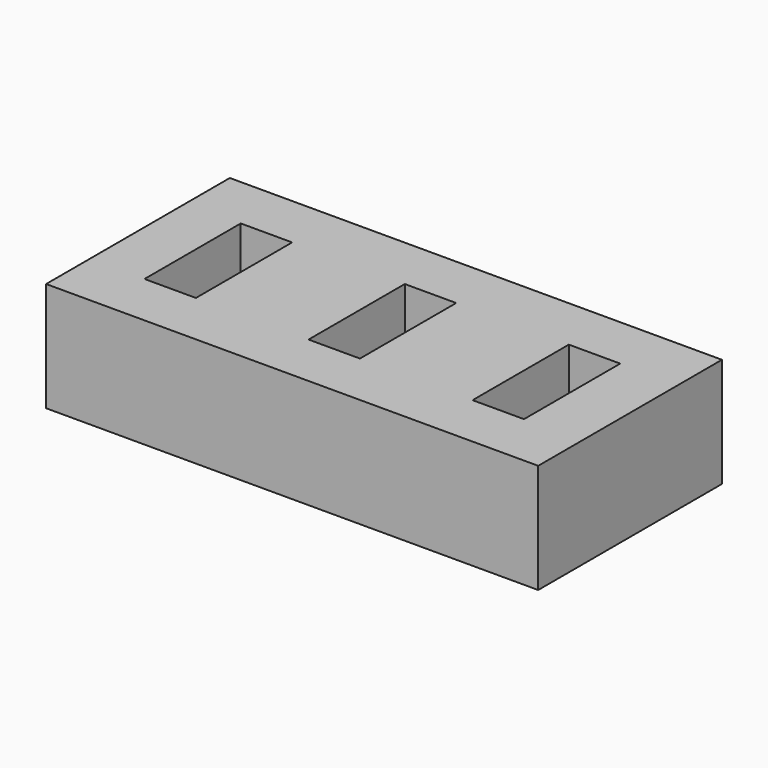
from build123d import *

# Parameters (mm, degrees)
BOX001_W     = 4.7
BOX001_H     = 11
BOX001_DEPTH = 12
BOX_W        = 4.7
BOX_H        = 11
BOX_DEPTH    = 12
BOX002_W     = 4.7
BOX002_H     = 11
BOX002_DEPTH = 12
BOX003_W     = 45
BOX003_H     = 21
BOX003_DEPTH = 10


with BuildPart() as box001:
    # Box001 → Box001 (new body)
    with BuildSketch(Plane(origin=(15, 0, 0), x_dir=(1, 0, 0), z_dir=(0, 0, 1))):
        with Locations((2.35, 5.5)):
            Rectangle(BOX001_W, BOX001_H)
    extrude(amount=BOX001_DEPTH)


with BuildPart() as box:
    # Box → Box (new body)
    with BuildSketch(Plane.XY):
        with Locations((2.35, 5.5)):
            Rectangle(BOX_W, BOX_H)
    extrude(amount=BOX_DEPTH)


with BuildPart() as ranuras:
    # Box002 → Box002 (new body)
    with BuildSketch(Plane(origin=(30, 0, 0), x_dir=(1, 0, 0), z_dir=(0, 0, 1))):
        with Locations((2.35, 5.5)):
            Rectangle(BOX002_W, BOX002_H)
    extrude(amount=BOX002_DEPTH)

    # Fusion: union Box001, Box
    add(box001.part)
    add(box.part)


with BuildPart() as ranuras_1:
    # Fusion placement: moved
    add(ranuras.part.moved(Location((0, 0, 3))))


with BuildPart() as porta_pendrives:
    # Box003 → Box003 (new body)
    with BuildSketch(Plane(origin=(-5, -5, 0), x_dir=(1, 0, 0), z_dir=(0, 0, 1))):
        with Locations((22.5, 10.5)):
            Rectangle(BOX003_W, BOX003_H)
    extrude(amount=BOX003_DEPTH)

    # Cut: cut Ranuras
    add(ranuras_1.part, mode=Mode.SUBTRACT)


solid = porta_pendrives.part
